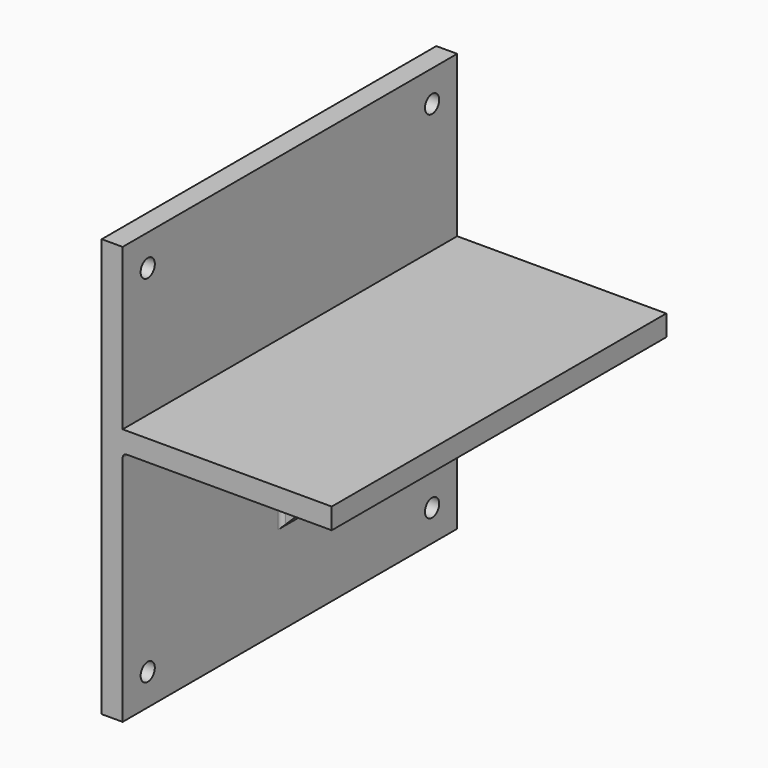
from build123d import *

# Parameters (mm, degrees)
F0_W     = 10
F0_H     = 76.8
F0_H_2   = 10
F0_W_2   = 100
F0_H_3   = 113.2
F1_DEPTH = 100
F3_DEPTH = 5
F4_R     = 2
F6_D     = 8.5


with BuildPart() as f1:
    # F0 (on Front) → F1 (new body, symmetric)
    with BuildSketch(Plane.XZ):
        with Locations((-22.584166, 61.6)):
            Rectangle(F0_W, F0_H)
        with Locations((-22.584166, 18.2)):
            Rectangle(F0_W, F0_H_2)
        with Locations((32.415834, 18.2)):
            Rectangle(F0_W_2, F0_H_2)
        with Locations((-22.584166, -43.4)):
            Rectangle(F0_W, F0_H_3)
    extrude(amount=F1_DEPTH, both=True)

    # F2 (on Front) → F3 (join, symmetric)
    with BuildSketch(Plane.XZ):
        Polygon((-17.584166, 13.2), (-17.584166, -56.8), (52.415834, 13.2), align=None)
    extrude(amount=F3_DEPTH, both=True)

    # F4
    f4_edges = [f1.edges().sort_by_distance(p)[0] for p in [
        (17.415834, -5, 13.2),
        (-17.584166, -5, -21.8),
        (-17.584166, -52.5, 13.2),
        (-17.584166, 52.5, 13.2),
        (-17.584166, 5, -21.8),
        (17.415834, 5, 13.2),
    ]]
    fillet(f4_edges, radius=F4_R)

    # F6 (through all)
    with Locations(Plane.YZ.offset(-17.584166)):
        with Locations((-85, 85), (85, 85), (85, -85), (-85, -85)):
            Hole(F6_D / 2)


solid = f1.part
